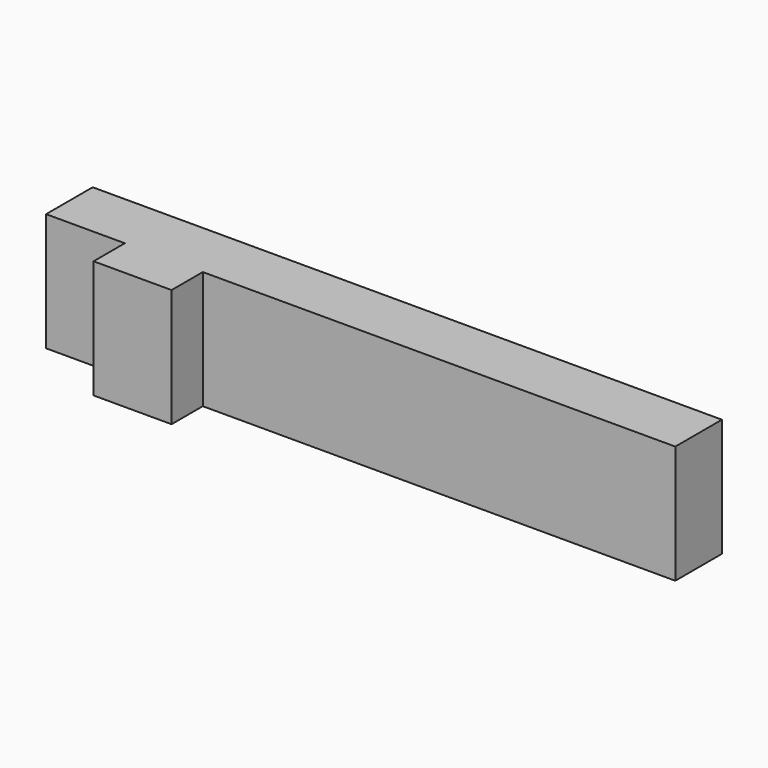
from build123d import *

# Parameters (mm, degrees)
F1_DEPTH = 38.1
F2_W     = 18.796
F2_H     = 38.1
F3_DEPTH = 127


with BuildPart() as f1:
    # F0 (on Top) → F1 (new body)
    with BuildSketch(Plane.XY):
        Polygon((38.974344, 14.27756), (-36.971656, 14.27756), (-36.971656, -4.51844), (-11.571656, -4.51844), (-11.571656, -17.11684), (13.574344, -17.11684), (13.574344, -4.51844), (38.974344, -4.51844), align=None)
    extrude(amount=F1_DEPTH)

    # F2 (on face) → F3 (join)
    with BuildSketch(Plane.YZ.offset(38.974344)):
        with Locations((4.87956, 19.05)):
            Rectangle(F2_W, F2_H)
    extrude(amount=F3_DEPTH)


solid = f1.part
